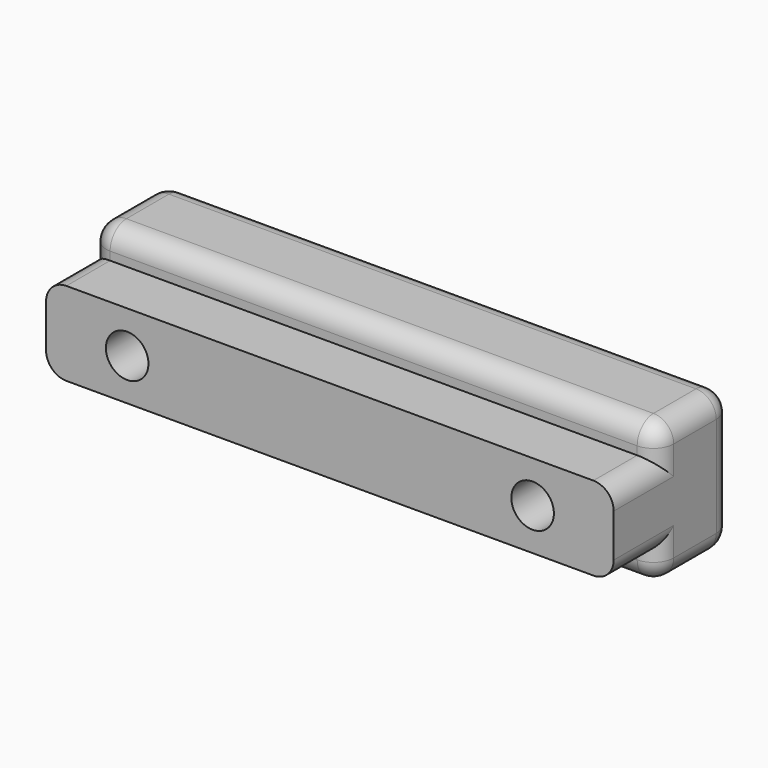
from build123d import *

# Parameters (mm, degrees)
PAD_DEPTH       = 28
FILLET_R        = 2
SKETCH003_R     = 2.1
POCKET001_DEPTH = 10


with BuildPart() as part:
    # Sketch → Pad (new body, symmetric)
    with BuildSketch(Plane.YZ):
        Polygon((-2, 4.125), (3.4, 4.125), (3.4, 6.95), (12.65, 6.95), (12.65, -6.95), (3.4, -6.95), (3.4, -4.125), (-2, -4.125), align=None)
    extrude(amount=PAD_DEPTH, both=True)

    # Fillet
    fillet_edges = [part.edges().sort_by_distance(p)[0] for p in [
        (-28, 8.025, 6.95),
        (0, 3.4, 6.95),
        (0, 12.65, 6.95),
        (28, 8.025, 6.95),
        (28, 12.65, 0),
        (0, 12.65, -6.95),
        (-28, 12.65, 0),
        (-28, 8.025, -6.95),
        (28, 8.025, -6.95),
        (0, 3.4, -6.95),
        (28, 3.4, -5.5375),
        (28, 3.4, 5.5375),
        (-28, 3.4, -5.5375),
        (-28, 0.7, -4.125),
        (28, 0.7, -4.125),
        (28, 0.7, 4.125),
        (-28, 0.7, 4.125),
        (-28, 3.4, 5.5375),
    ]]
    fillet(fillet_edges, radius=FILLET_R)

    # Sketch003 (on Face2 of Fillet) → Pocket001 (cut)
    with BuildSketch(Plane(origin=(0, -2, 0), x_dir=(0, 0, -1), z_dir=(0, -1, 0))):
        with Locations((0, 20)):
            Circle(SKETCH003_R)
        with Locations((0, -20)):
            Circle(SKETCH003_R)
    extrude(amount=-POCKET001_DEPTH, mode=Mode.SUBTRACT)


solid = part.part
